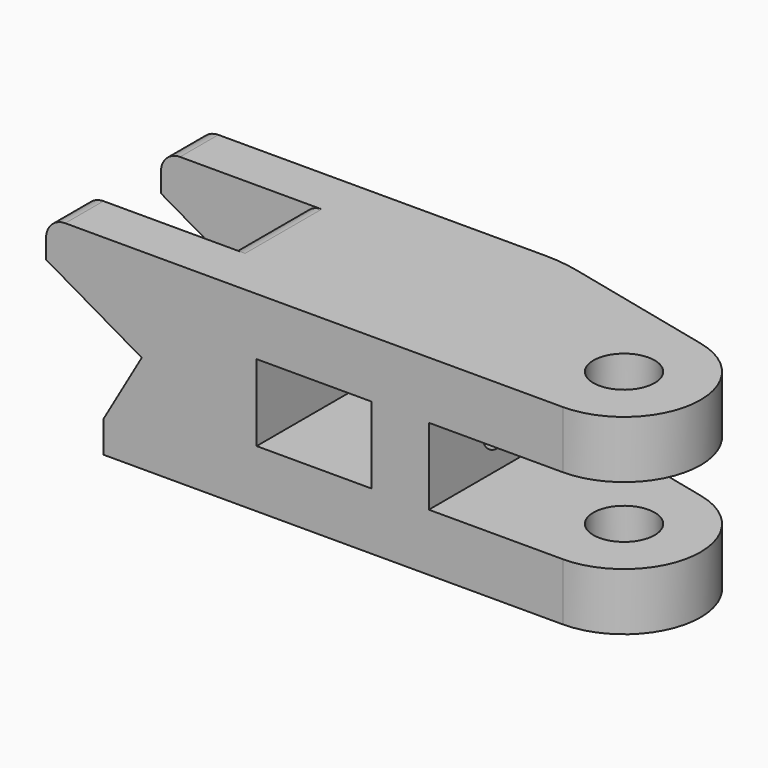
from build123d import *

# Parameters (mm, degrees)
SKETCH002_W     = 13
SKETCH002_H     = 14
SKETCH002_W_2   = 6
PAD001_DEPTH    = 2
SKETCH_R        = 1.6
PAD_DEPTH       = 5
POCKET_DEPTH    = 10.001
SKETCH003_W     = 7
SKETCH003_H     = 5
POCKET001_DEPTH = 17.2330508076
SKETCH004_R     = 1
POCKET002_DEPTH = 6
POCKET003_DEPTH = 3
FILLET_R        = 8
FILLET001_R     = 1
FILLET002_R     = 1


with BuildPart() as pad001:
    # Sketch002 → Pad001 (new body, symmetric)
    with BuildSketch(Plane.XY):
        with Locations((-0.5, 0)):
            Rectangle(SKETCH002_W, SKETCH002_H)
        with Locations((-13, 0)):
            Rectangle(SKETCH002_W_2, SKETCH002_H)
    extrude(amount=PAD001_DEPTH, both=True)


with BuildPart() as fillet002:
    # Sketch → Pad (new body, symmetric)
    with BuildSketch(Plane.XY):
        with BuildLine():
            ThreePointArc((0, -4), (3.9731206567, -0.4629387079), (0.9196556715, 3.8928438764))
            Line((0.9196556715, 3.8928438764), (-8, 6))
            Line((-8, 6), (-30, 6))
            Line((-30, -4), (-30, 6))
            Line((0, -4), (-30, -4))
        make_face()
        Circle(SKETCH_R, mode=Mode.SUBTRACT)
    extrude(amount=PAD_DEPTH, both=True)

    # Sketch001 → Pocket (cut, through all)
    with BuildSketch(Plane(origin=(0, 6, 0), x_dir=(-1, 0, 0), z_dir=(0, 1, 0))):
        Polygon((22, 0.1132486541), (24, -3.3508529611), (24, -5), (30, -5), (30, 5), (27, 5), (27, 3), align=None)
    extrude(amount=-POCKET_DEPTH, mode=Mode.SUBTRACT)

    # Cut: cut Pad001
    add(pad001.part, mode=Mode.SUBTRACT)

    # Sketch003 → Pocket001 (cut, through all)
    with BuildSketch(Plane(origin=(-5.4509618943, 0, -9.4413429511), x_dir=(0.8660254038, 0, -0.5), z_dir=(-0.5, 0, -0.8660254038))):
        with Locations((-22.6091832103, -1)):
            Rectangle(SKETCH003_W, SKETCH003_H)
    extrude(amount=-POCKET001_DEPTH, mode=Mode.SUBTRACT)

    # Sketch004 → Pocket002 (cut)
    with BuildSketch(Plane(origin=(-16.5490381057, 0, 9.5545916051), x_dir=(0, -1, 0), z_dir=(-0.8660254038, 0, 0.5))):
        with Locations((-1, -7.9019237886)):
            Circle(SKETCH004_R)
    extrude(amount=-POCKET002_DEPTH, mode=Mode.SUBTRACT)

    # Sketch005 → Pocket003 (cut)
    with BuildSketch(Plane.YZ.offset(-7)):
        with BuildLine():
            Line((0.5, 1), (2.5, 1))
            ThreePointArc((2.5, -1), (3.5, 0), (2.5, 1))
            Line((0.5, -1), (2.5, -1))
            ThreePointArc((0.5, 1), (-0.5, 0), (0.5, -1))
        make_face()
    extrude(amount=-POCKET003_DEPTH, mode=Mode.SUBTRACT)

    # Fillet
    fillet_edges = [fillet002.edges().sort_by_distance(p)[0] for p in [
        (-8, 6, 0),
    ]]
    fillet(fillet_edges, radius=FILLET_R)

    # Fillet001
    fillet001_edges = [fillet002.edges().sort_by_distance(p)[0] for p in [
        (-27, 4.75, 5),
        (-27, -2.75, 5),
    ]]
    fillet(fillet001_edges, radius=FILLET001_R)

    # Fillet002
    fillet002_edges = [fillet002.edges().sort_by_distance(p)[0] for p in [
        (-19.178633, 1, 5),
    ]]
    fillet(fillet002_edges, radius=FILLET002_R)


solid = fillet002.part
